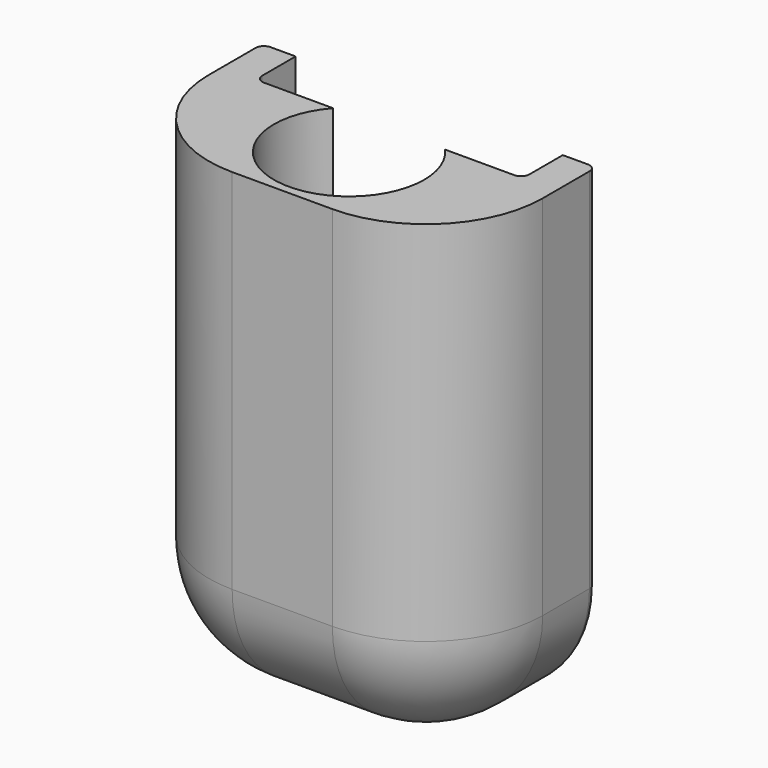
from build123d import *

# Parameters (mm, degrees)
F0_W     = 20
F0_H     = 29
F1_DEPTH = 11
F2_W     = 16
F2_H     = 30
F3_DEPTH = 3
F5_DEPTH = 6.5
F7_DEPTH = 9
F8_R     = 4
F9_R     = 7
F10_R    = 0.5


with BuildPart() as f1:
    # F0 (on Front) → F1 (new body)
    with BuildSketch(Plane.XZ):
        Rectangle(F0_W, F0_H)
    extrude(amount=F1_DEPTH)

    # F2 (on face) → F3 (cut)
    with BuildSketch(Plane.XZ):
        with Locations((0, 2.5)):
            Rectangle(F2_W, F2_H)
    extrude(amount=F3_DEPTH, mode=Mode.SUBTRACT)

    # F4 (on face) → F5 (cut)
    with BuildSketch(Plane(origin=(0, -3, 0), x_dir=(-1, 0, 0), z_dir=(0, 1, 0))):
        with BuildLine():
            Line((0, -8.15), (0.659236, -8.715135))
            ThreePointArc((0.659236, -8.715135), (5.412659, -5.625), (5.712083, 0.036653))
            Line((5.712083, 0.036653), (4.893044, 0.325))
            Line((4.893044, 0.325), (5.052847, 1.178482))
            ThreePointArc((5.052847, 1.178482), (0, 3.75), (-5.052847, 1.178482))
            Line((-5.052847, 1.178482), (-4.893044, 0.325))
            Line((-4.893044, 0.325), (-5.712083, 0.036653))
            ThreePointArc((-5.712083, 0.036653), (-5.412659, -5.625), (-0.659236, -8.715135))
            Line((-0.659236, -8.715135), (0, -8.15))
        make_face()
    extrude(amount=-F5_DEPTH, mode=Mode.SUBTRACT)

    # F6 (on face) → F7 (cut)
    with BuildSketch(Plane.XY.offset(14.5)):
        with BuildLine():
            ThreePointArc((-3.354102, -3), (-1.605699, -10.203776), (4.5, -6))
            ThreePointArc((4.5, -6), (4.203776, -4.394301), (3.354102, -3))
            Line((3.354102, -3), (-3.354102, -3))
        make_face()
    extrude(amount=-F7_DEPTH, mode=Mode.SUBTRACT)

    # F8
    f8_edges = [f1.edges().sort_by_distance(p)[0] for p in [
        (8, -1.5, -12.5),
        (-8, -1.5, -12.5),
    ]]
    fillet(f8_edges, radius=F8_R)

    # F9
    f9_edges = [f1.edges().sort_by_distance(p)[0] for p in [
        (-10, -5.5, -14.5),
        (10, -5.5, -14.5),
        (0, -11, -14.5),
        (10, -11, 0),
        (-10, -11, 0),
    ]]
    fillet(f9_edges, radius=F9_R)

    # F10
    f10_edges = [f1.edges().sort_by_distance(p)[0] for p in [
        (8, -3, 3),
        (10, 0, 3.5),
    ]]
    fillet(f10_edges, radius=F10_R)


solid = f1.part
